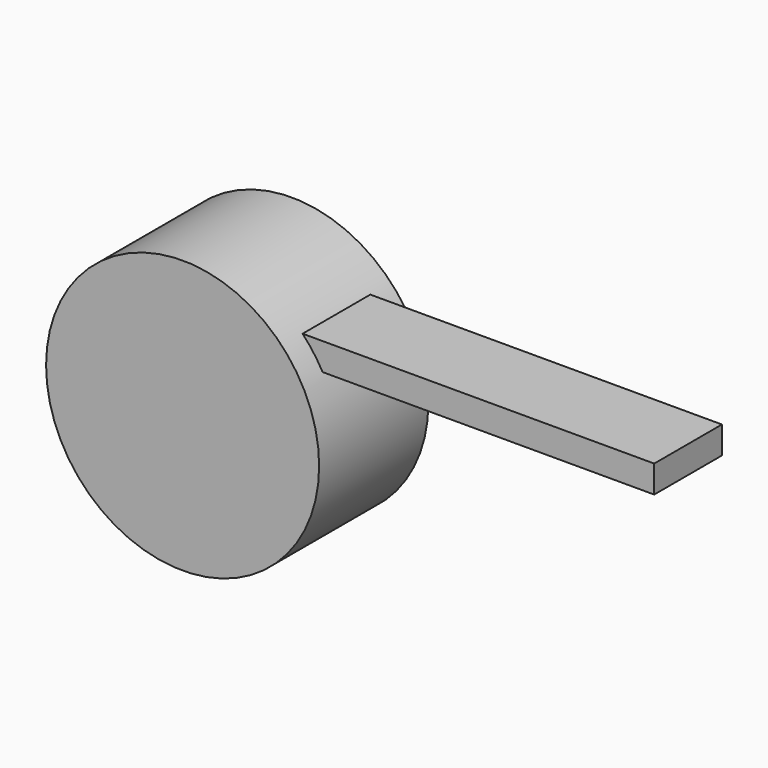
from build123d import *

# Parameters (mm, degrees)
F0_R          = 25.4
F1_DEPTH      = 25.4
F2_W          = 15.748
F2_H          = 5.08
F3_DEPTH      = 50.8
F3_DEPTH_BACK = 25.4


with BuildPart() as f1:
    # F0 (on Front) → F1 (new body)
    with BuildSketch(Plane.XZ):
        with Locations((-33.070799, 16.154399)):
            Circle(F0_R)
    extrude(amount=F1_DEPTH)

    # F2 (on Right) → F3 (join, two sides)
    with BuildSketch(Plane.YZ) as f3_sk:
        with Locations((-12.7, 31.060102)):
            Rectangle(F2_W, F2_H)
    extrude(amount=F3_DEPTH)
    extrude(f3_sk.sketch, amount=-F3_DEPTH_BACK)


solid = f1.part
